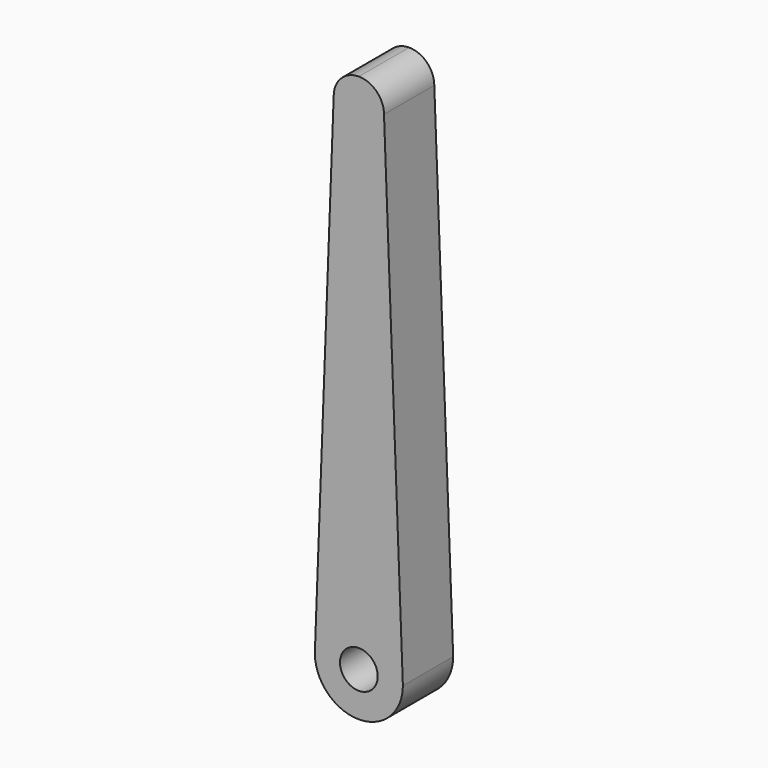
from build123d import *

# Parameters (mm, degrees)
F0_R     = 1.5
F1_DEPTH = 5


with BuildPart() as f1:
    # F0 (on Front) → F1 (new body)
    with BuildSketch(Plane.XZ):
        with BuildLine():
            Line((-2, 39.5), (-3.5, 0))
            ThreePointArc((-3.5, 0), (-2.474874, -2.474874), (0, -3.5))
            ThreePointArc((0, -3.5), (2.474874, -2.474874), (3.5, 0))
            Line((3.5, 0), (2, 39.5))
            ThreePointArc((2, 39.5), (1.414214, 40.914214), (0, 41.5))
            ThreePointArc((0, 41.5), (-1.414214, 40.914214), (-2, 39.5))
        make_face()
        Circle(F0_R, mode=Mode.SUBTRACT)
    extrude(amount=F1_DEPTH)


solid = f1.part
